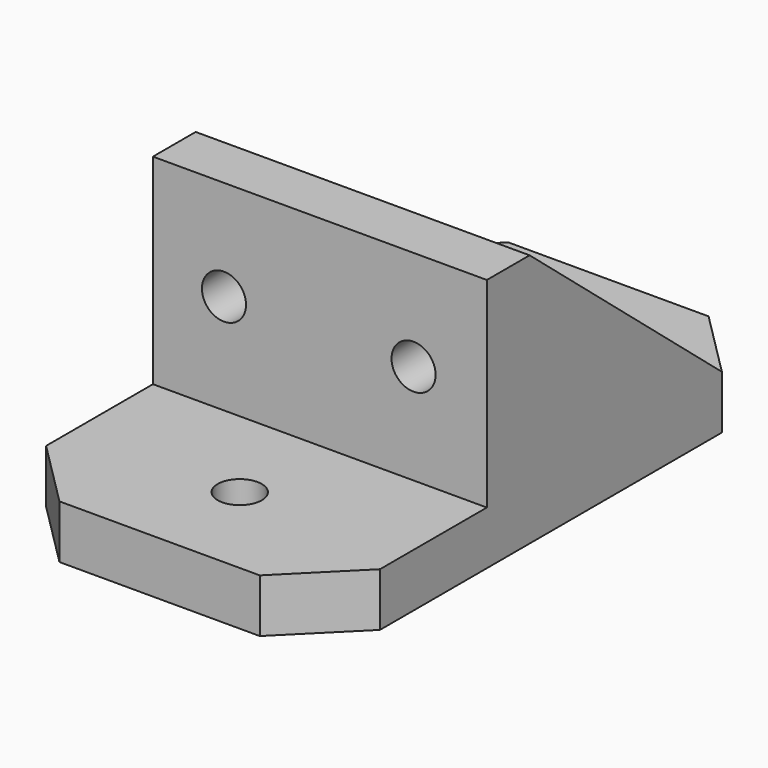
from build123d import *

# Parameters (mm, degrees)
F0_R      = 1.5
F0_R_2    = 5.3160889555
F1_DEPTH  = 4
F2_SIZE   = 5
F3_W      = 25
F3_H      = 4
F4_DEPTH  = 15
F5_W      = 25
F5_H      = 15
F6_DEPTH  = 4
F7_R      = 1.65
F8_DEPTH  = 25
F9_R      = 1.65
F10_DEPTH = 25
F11_W     = 4
F11_H     = 18.4155227914
F11_H_2   = 18
F12_DEPTH = 15
F14_DEPTH = 28.2
F15_R     = 3.349705052
F16_DEPTH = 25
F17_SIZE  = 5


with BuildPart() as f1:
    # F0 (on Top) → F1 (new body)
    with BuildSketch(Plane.XY):
        with BuildLine():
            Line((12.5, -10.5), (12.5, 10.5))
            Line((12.5, 10.5), (-12.5, 10.5))
            Line((-12.5, 10.5), (-12.5, -10.5))
            ThreePointArc((-12.5, -10.5), (-11.9142135624, -11.9142135624), (-10.5, -12.5))
            Line((-10.5, -12.5), (10.5, -12.5))
            ThreePointArc((10.5, -12.5), (11.9142135624, -11.9142135624), (12.5, -10.5))
        make_face()
        with Locations((-5.6568542495, -5.6568542495)):
            Circle(F0_R, mode=Mode.SUBTRACT)
        with Locations((5.6568542495, -5.6568542495)):
            Circle(F0_R, mode=Mode.SUBTRACT)
        with Locations((-5.6568542495, 5.6568542495)):
            Circle(F0_R, mode=Mode.SUBTRACT)
        Circle(F0_R_2, mode=Mode.SUBTRACT)
        with Locations((5.6568542495, 5.6568542495)):
            Circle(F0_R, mode=Mode.SUBTRACT)
        with BuildLine():
            Line((12.5, -16.5), (12.5, -10.5))
            ThreePointArc((12.5, -10.5), (11.9142135624, -11.9142135624), (10.5, -12.5))
            Line((10.5, -12.5), (-10.5, -12.5))
            ThreePointArc((-10.5, -12.5), (-11.9142135624, -11.9142135624), (-12.5, -10.5))
            Line((-12.5, -10.5), (-12.5, -16.5))
            Line((-12.5, -16.5), (-10.5, -16.5))
            Line((-10.5, -16.5), (10.5, -16.5))
            Line((10.5, -16.5), (12.5, -16.5))
        make_face()
    extrude(amount=F1_DEPTH)

    # F2
    f2_edges = [f1.edges().sort_by_distance(p)[0] for p in [
        (12.5, 10.5, 2),
        (-12.5, 10.5, 2),
    ]]
    chamfer(f2_edges, length=F2_SIZE)

    # F3 (on face) → F4 (join)
    with BuildSketch(Plane.XY.offset(4)):
        with Locations((0, -14.5)):
            Rectangle(F3_W, F3_H)
    extrude(amount=F4_DEPTH)

    # F5 (on face) → F6 (join)
    with BuildSketch(Plane(origin=(0, 0, 0), x_dir=(1, 0, 0), z_dir=(0, 0, -1))):
        with Locations((0, 24)):
            Rectangle(F5_W, F5_H)
    extrude(amount=-F6_DEPTH)

    # F7 (on face) → F8 (cut)
    with BuildSketch(Plane.XZ.offset(16.5)):
        with Locations((-7.1815280244, 11.5)):
            Circle(F7_R)
        with Locations((7.0133642294, 11.5)):
            Circle(F7_R)
    extrude(amount=-F8_DEPTH, mode=Mode.SUBTRACT)

    # F9 (on face) → F10 (cut)
    with BuildSketch(Plane.XY.offset(4)):
        with Locations((0, -24)):
            Circle(F9_R)
    extrude(amount=-F10_DEPTH, mode=Mode.SUBTRACT)

    # F11 (on face) → F12 (join, through all)
    with BuildSketch(Plane.XY.offset(4)):
        with Locations((-10.5, -3.7077613957)):
            Rectangle(F11_W, F11_H)
        with Locations((10.5, -3.5)):
            Rectangle(F11_W, F11_H_2)
    extrude(amount=F12_DEPTH)

    # F13 (on face) → F14 (cut)
    with BuildSketch(Plane(origin=(-12.5, 0, 0), x_dir=(0, -1, 0), z_dir=(-1, 0, 0))):
        Polygon((-5.5, 4), (12.5, 19), (-5.5, 19), align=None)
    extrude(amount=-F14_DEPTH, mode=Mode.SUBTRACT)

    # F15 (on face) → F16 (cut)
    with BuildSketch(Plane(origin=(0, -12.5, 0), x_dir=(-1, 0, 0), z_dir=(0, 1, 0))):
        with Locations((-7.0133642294, 11.5)):
            Circle(F15_R)
        with Locations((7.1815280244, 11.5)):
            Circle(F15_R)
    extrude(amount=F16_DEPTH, mode=Mode.SUBTRACT)

    # F17
    f17_edges = [f1.edges().sort_by_distance(p)[0] for p in [
        (-12.5, -31.5, 2),
        (12.5, -31.5, 2),
    ]]
    chamfer(f17_edges, length=F17_SIZE)


solid = f1.part
